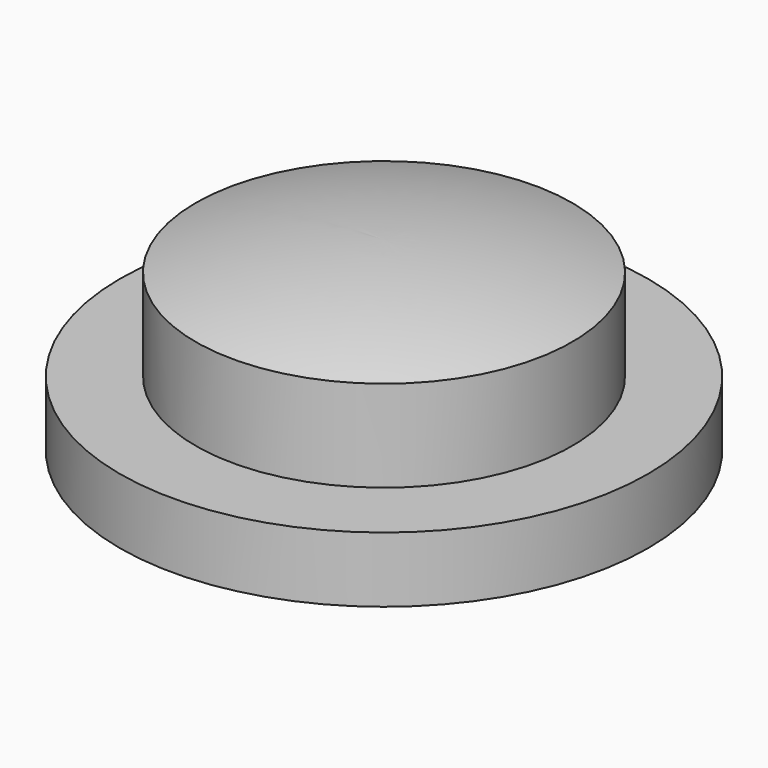
from build123d import *

# Parameters (mm, degrees)
F2_R     = 6.8
F3_DEPTH = 5.7
F4_R     = 3
F5_DEPTH = 0.5


with BuildPart() as f1:
    # F0 (on Front) → F1 (revolve)
    with BuildSketch(Plane.XZ):
        with BuildLine():
            Line((-10.1, 0), (0, 0))
            Line((0, 0), (0, 7.1))
            ThreePointArc((0, 7.1), (-3.641772, 6.823414), (-7.2, 6))
            Line((-7.2, 6), (-7.2, 2.5))
            Line((-7.2, 2.5), (-10.1, 2.5))
            Line((-10.1, 2.5), (-10.1, 0))
        make_face()
    revolve(axis=Axis((0, 0, 3.55), (0, 0, -1)))

    # F2 (on face) → F3 (cut)
    with BuildSketch(Plane(origin=(0, 0, 0), x_dir=(1, 0, 0), z_dir=(0, 0, -1))):
        Circle(F2_R)
    extrude(amount=-F3_DEPTH, mode=Mode.SUBTRACT)

    # F4 (on face) → F5 (join)
    with BuildSketch(Plane(origin=(0, 0, 5.7), x_dir=(1, 0, 0), z_dir=(0, 0, -1))):
        Circle(F4_R)
    extrude(amount=F5_DEPTH)


solid = f1.part
